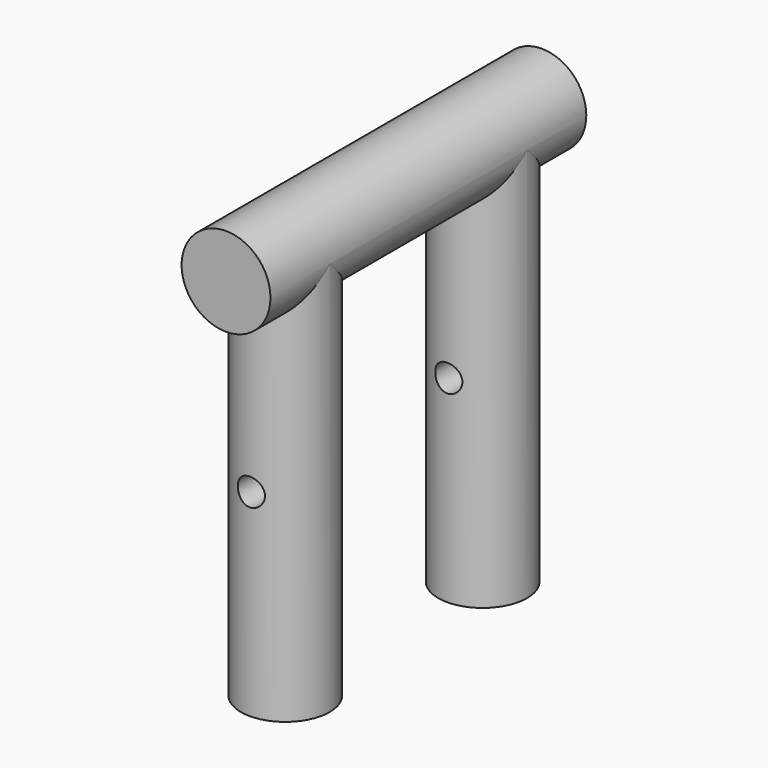
from build123d import *

# Parameters (mm, degrees)
SKETCH005_AS_DRAWN_R                                = 2.75
EXTRUDE_SKETCH005001_DEPTH                          = 90
EXTRUDE_SKETCH005001_ONTO_SKETCH005_ROLL_ANGLE      = 90
EXTRUDE_SKETCH005001_ONTO_SKETCH005_PLACEMENT_ANGLE = 180
CYLINDER_R                                          = 9
CYLINDER_DEPTH                                      = 80
CYLINDER001_R                                       = 9
CYLINDER001_DEPTH                                   = 80
CYLINDER001_ROLL_ANGLE                              = 90


with BuildPart() as clone_of_sketch005_extrude001:
    # Sketch005 as drawn → Extrude_Sketch005001 (new)
    with BuildSketch(Plane.XY):
        with Locations((-90, 54)):
            Circle(SKETCH005_AS_DRAWN_R)
    extrude(amount=-EXTRUDE_SKETCH005001_DEPTH)


with BuildPart() as clone_of_sketch005_extrude001_1:
    # Extrude_Sketch005001 onto Sketch005 roll: moved
    add(clone_of_sketch005_extrude001.part.rotate(Axis((0, 0, 0), (1, 0, 0)), EXTRUDE_SKETCH005001_ONTO_SKETCH005_ROLL_ANGLE))


with BuildPart() as clone_of_sketch005_extrude001_2:
    # Extrude_Sketch005001 onto Sketch005 placement: moved
    add(clone_of_sketch005_extrude001_1.part.moved(Location((0, 111, 0))).rotate(Axis((0, 111, 0), (0, 0, 1)), EXTRUDE_SKETCH005001_ONTO_SKETCH005_PLACEMENT_ANGLE))


with BuildPart() as cilindro:
    # Cylinder → Cylinder (new body)
    with BuildSketch(Plane(origin=(76.968275, 45, 32), x_dir=(1, 0, 0), z_dir=(0, 0, 1))):
        Circle(CYLINDER_R)
    extrude(amount=CYLINDER_DEPTH)


with BuildPart() as clone_of_cilindro:
    # Clone003 base: copy of Cilindro
    add(cilindro.part)


with BuildPart() as clone_of_cilindro_1:
    # Clone003 placement: moved
    add(clone_of_cilindro.part.moved(Location((0, 50, 0))))


with BuildPart() as cut003:
    # Cylinder001 → Cylinder001 (new body)
    with BuildSketch(Plane.XY):
        Circle(CYLINDER001_R)
    extrude(amount=CYLINDER001_DEPTH)


with BuildPart() as cut003_1:
    # Cylinder001 roll: moved
    add(cut003.part.rotate(Axis((0, 0, 0), (1, 0, 0)), CYLINDER001_ROLL_ANGLE))


with BuildPart() as cut003_2:
    # Cylinder001 placement: moved
    add(cut003_1.part.moved(Location((76.9683, 110, 112))))

    # Fusion: union Clone of Cilindro, Cilindro
    add(clone_of_cilindro_1.part)
    add(cilindro.part)


with BuildPart() as cut003_3:
    # Fusion placement: moved
    add(cut003_2.part.moved(Location((13.0317, 0, -18))))

    # Cut003: cut Clone of Sketch005_Extrude001
    add(clone_of_sketch005_extrude001_2.part, mode=Mode.SUBTRACT)


solid = cut003_3.part
